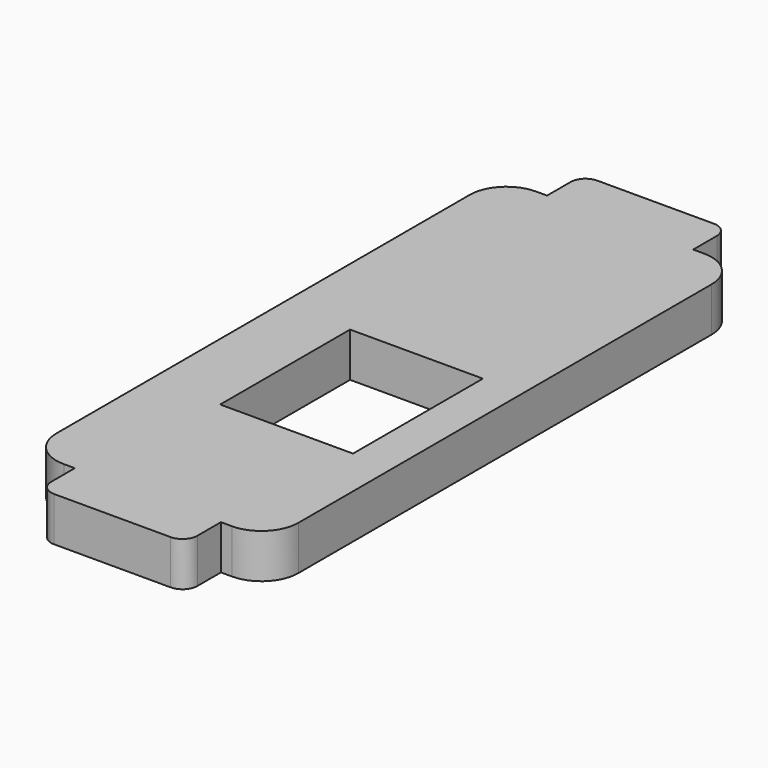
from build123d import *

# Parameters (mm, degrees)
SKETCH_W    = 9
SKETCH_H    = 11
PAD_DEPTH   = 3
FILLET_R    = 1
FILLET001_R = 2.5


with BuildPart() as part:
    # Sketch → Pad (new body)
    with BuildSketch(Plane.XY):
        Polygon((39.740207, 35.73141), (39.740207, -4.26859), (36.490207, -4.26859), (36.490207, -7.26859), (26.590207, -7.26859), (26.590207, -4.26859), (23.340207, -4.26859), (23.340207, 35.73141), (26.590207, 35.73141), (26.590207, 38.73141), (36.490207, 38.73141), (36.490207, 35.73141), align=None)
        with Locations((32.540207, 11.73141)):
            Rectangle(SKETCH_W, SKETCH_H, mode=Mode.SUBTRACT)
    extrude(amount=PAD_DEPTH)

    # Fillet
    fillet_edges = [part.edges().sort_by_distance(p)[0] for p in [
        (36.490207, -7.26859, 1.5),
        (26.590207, -7.26859, 1.5),
        (36.490207, 38.73141, 1.5),
        (26.590207, 38.73141, 1.5),
    ]]
    fillet(fillet_edges, radius=FILLET_R)

    # Fillet001
    fillet001_edges = [part.edges().sort_by_distance(p)[0] for p in [
        (39.740207, -4.26859, 1.5),
        (39.740207, 35.73141, 1.5),
        (23.340207, -4.26859, 1.5),
        (23.340207, 35.73141, 1.5),
    ]]
    fillet(fillet001_edges, radius=FILLET001_R)


with BuildPart() as part_1:
    # Fillet001 placement: moved
    add(part.part.moved(Location((200, 100, 0))))


solid = part_1.part
